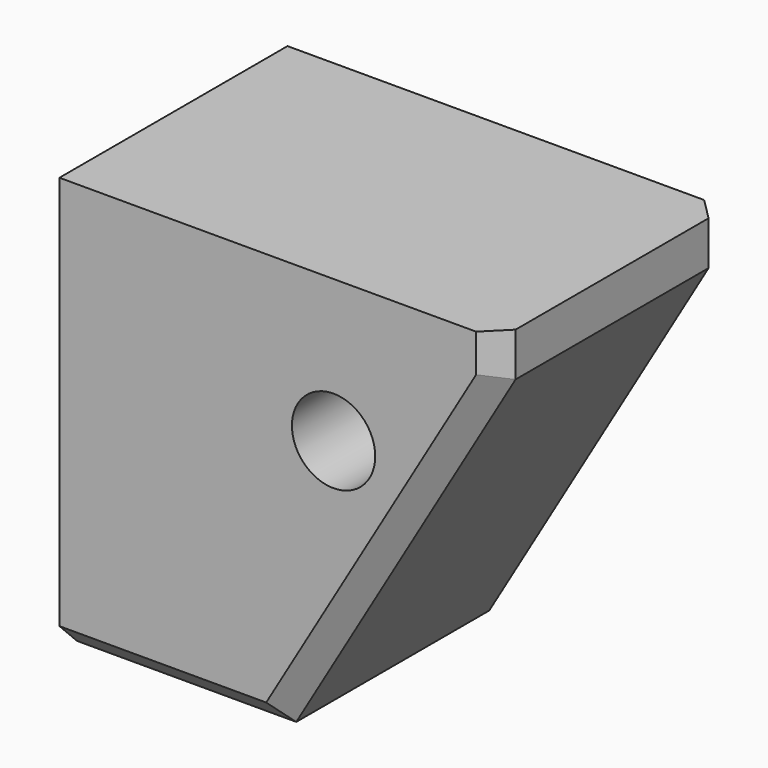
from build123d import *

# Parameters (mm, degrees)
CYLINDER010_R                               = 1.9
CYLINDER010_DEPTH                           = 14
BOX015_W                                    = 20
BOX015_H                                    = 13
BOX015_DEPTH                                = 19
CHAMFER004013007011015006009007001002_SIZE2 = 10
CHAMFER004013007011015006009007001002_SIZE  = 17
CHAMFER004013007011015006009007001003_SIZE  = 1


with BuildPart() as cylinder010:
    # Cylinder010 → Cylinder010 (new body)
    with BuildSketch(Plane(origin=(22, 7, 9.5), x_dir=(1, 0, 0), z_dir=(0, -1, 0))):
        Circle(CYLINDER010_R)
    extrude(amount=CYLINDER010_DEPTH)


with BuildPart() as supporter:
    # Box015 → Box015 (new body)
    with BuildSketch(Plane(origin=(9.5, -6.5, -3), x_dir=(1, 0, 0), z_dir=(0, 0, 1))):
        with Locations((10, 6.5)):
            Rectangle(BOX015_W, BOX015_H)
    extrude(amount=BOX015_DEPTH)

    # Chamfer004013007011015006009007001002
    chamfer004013007011015006009007001002_edges = [supporter.edges().sort_by_distance(p)[0] for p in [
        (29.5, 0, -3),
    ]]
    chamfer004013007011015006009007001002_side = supporter.faces().sort_by_distance((29.5, 0, 6.5))[0]
    chamfer(chamfer004013007011015006009007001002_edges, length=CHAMFER004013007011015006009007001002_SIZE, length2=CHAMFER004013007011015006009007001002_SIZE2, reference=chamfer004013007011015006009007001002_side)

    # Chamfer004013007011015006009007001003
    chamfer004013007011015006009007001003_edges = [supporter.edges().sort_by_distance(p)[0] for p in [
        (29.5, -6.5, 15),
        (29.5, 6.5, 15),
        (14.5, -6.5, -3),
        (24.5, -6.5, 5.5),
        (24.5, 6.5, 5.5),
        (14.5, 6.5, -3),
    ]]
    chamfer(chamfer004013007011015006009007001003_edges, length=CHAMFER004013007011015006009007001003_SIZE)

    # Cut028006004005011004003001006: cut Cylinder010
    add(cylinder010.part, mode=Mode.SUBTRACT)


solid = supporter.part
